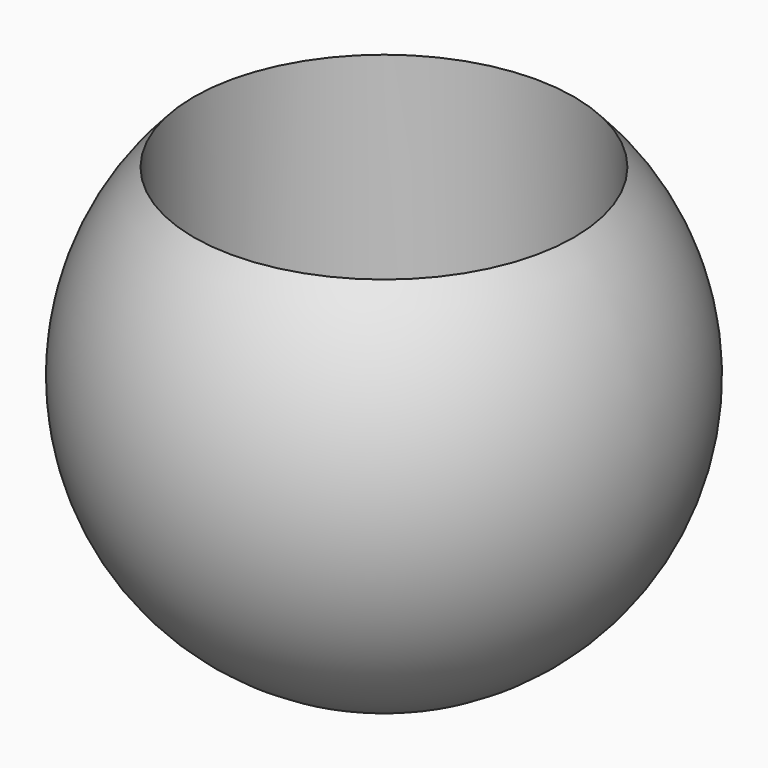
from build123d import *

# Parameters (mm, degrees)
CYLINDER001_R     = 9
CYLINDER001_DEPTH = 15
CYLINDER_R        = 4
CYLINDER_DEPTH    = 30


with BuildPart() as cylinder001:
    # Cylinder001 → Cylinder001 (new body)
    with BuildSketch(Plane.XY.offset(-3)):
        Circle(CYLINDER001_R)
    extrude(amount=CYLINDER001_DEPTH)


with BuildPart() as fusion:
    # Cylinder → Cylinder (new body)
    with BuildSketch(Plane.XY.offset(-15)):
        Circle(CYLINDER_R)
    extrude(amount=CYLINDER_DEPTH)

    # Fusion: union Cylinder001
    add(cylinder001.part)


with BuildPart() as final:
    # Sphere → Sphere (revolve)
    with BuildSketch(Plane.XZ):
        with BuildLine():
            ThreePointArc((0, -12.5), (12.5, 0), (0, 12.5))
            Line((0, 12.5), (0, -12.5))
        make_face()
    revolve(axis=Axis((0, 0, 0), (0, 0, 1)))

    # Cut: cut Fusion
    add(fusion.part, mode=Mode.SUBTRACT)


solid = final.part
